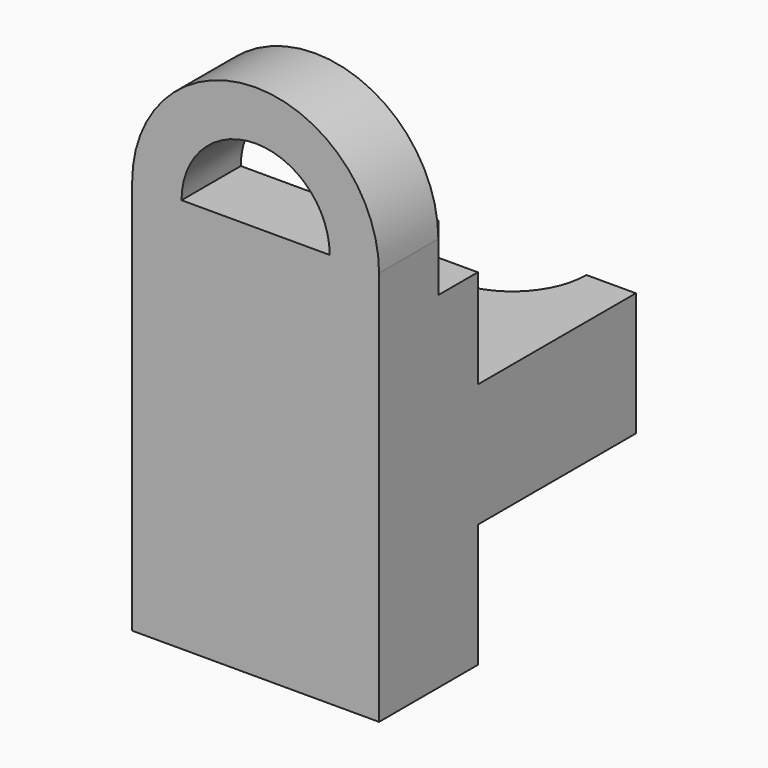
from build123d import *

# Parameters (mm, degrees)
PAD_DEPTH            = 65
SKETCH001_W          = 25
SKETCH001_H          = 40
POCKET_DEPTH         = 50.001
SKETCH002_W          = 20
SKETCH002_H          = 40
POCKET001_DEPTH      = 50.001
SKETCH003_W          = 50
SKETCH003_H          = 35
POCKET002_DEPTH      = 25.001
POCKET002_DEPTH_BACK = -25.001
POCKET003_DEPTH      = 15.001
PAD001_DEPTH         = 5
POCKET004_DEPTH      = 50.001


with BuildPart() as part:
    # Sketch → Pad (new body)
    with BuildSketch(Plane.XZ):
        with BuildLine():
            Line((-25, 80), (-25, 0))
            Line((-25, 0), (25, 0))
            Line((25, 0), (25, 80))
            ThreePointArc((25, 80), (0, 105), (-25, 80))
        make_face()
    extrude(amount=-PAD_DEPTH)

    # Sketch001 (on Face3 of Pad) → Pocket (cut, through all)
    with BuildSketch(Plane(origin=(25, 0, 0), x_dir=(0, 0, 1), z_dir=(1, 0, 0))):
        with Locations((12.5, -45)):
            Rectangle(SKETCH001_W, SKETCH001_H)
    extrude(amount=-POCKET_DEPTH, mode=Mode.SUBTRACT)

    # Sketch002 (on Face8 of Pocket) → Pocket001 (cut, through all)
    with BuildSketch(Plane(origin=(25, 0, 0), x_dir=(0, 0, 1), z_dir=(1, 0, 0))):
        with Locations((60, -45)):
            Rectangle(SKETCH002_W, SKETCH002_H)
    extrude(amount=-POCKET001_DEPTH, mode=Mode.SUBTRACT)

    # Sketch003 → Pocket002 (cut, two sides)
    with BuildSketch(Plane.YZ) as pocket002_sk:
        with Locations((40, 87.5)):
            Rectangle(SKETCH003_W, SKETCH003_H)
    extrude(amount=-POCKET002_DEPTH, mode=Mode.SUBTRACT)
    extrude(pocket002_sk.sketch, amount=-POCKET002_DEPTH_BACK, mode=Mode.SUBTRACT)

    # Sketch004 (on Face10 of Pocket002) → Pocket003 (cut, through all)
    with BuildSketch(Plane(origin=(0, 15, 0), x_dir=(1, 0, 0), z_dir=(0, 1, 0))):
        with BuildLine():
            ThreePointArc((-15, -80), (0, -95), (15, -80))
            Line((15, -80), (-15, -80))
        make_face()
    extrude(amount=-POCKET003_DEPTH, mode=Mode.SUBTRACT)

    # Sketch005 → Pad001 (join, symmetric)
    with BuildSketch(Plane.YZ):
        Polygon((25, 70), (25, 50), (45, 50), align=None)
    extrude(amount=PAD001_DEPTH, both=True)

    # Sketch006 (on Face7 of Pad001) → Pocket004 (cut, through all)
    with BuildSketch(Plane(origin=(0, 0, 50), x_dir=(-1, 0, 0), z_dir=(0, 0, 1))):
        with BuildLine():
            ThreePointArc((15, -65), (0, -50), (-15, -65))
            Line((-15, -65), (15, -65))
        make_face()
    extrude(amount=-POCKET004_DEPTH, mode=Mode.SUBTRACT)


solid = part.part
